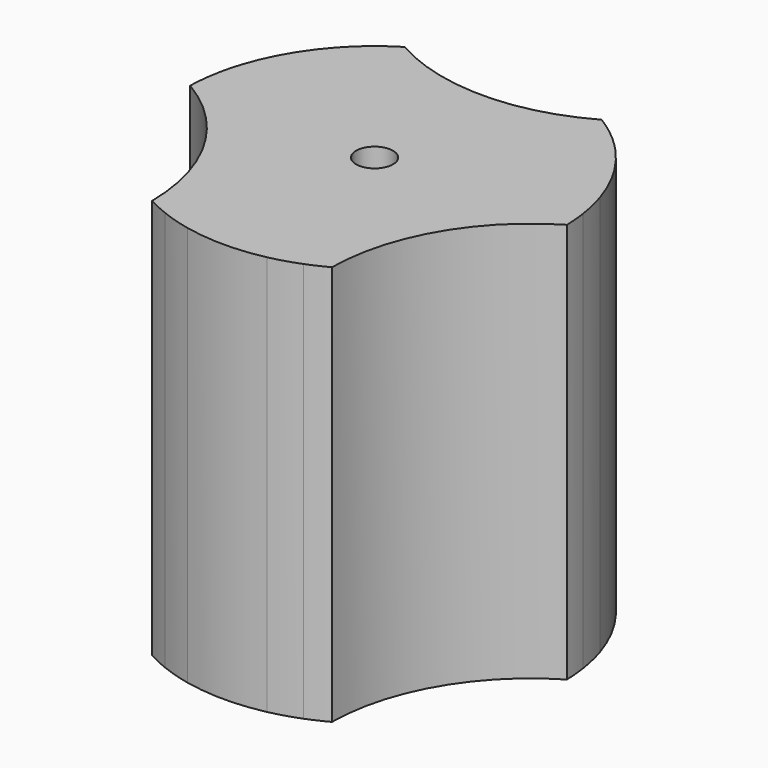
from build123d import *

# Parameters (mm, degrees)
F0_R     = 3.81
F1_DEPTH = 82.55


with BuildPart() as f1:
    # F0 (on Top) → F1 (new body)
    with BuildSketch(Plane.XY):
        with BuildLine():
            ThreePointArc((20.308533, 33.133345), (0, 27.791465), (-20.308533, 33.133345))
            ThreePointArc((-20.308533, 33.133345), (-22.265361, 31.851354), (-24.141506, 30.453944))
            ThreePointArc((-24.141506, 30.453944), (-24.378061, 26.06285), (-28.775153, 26.119832))
            ThreePointArc((-28.775153, 26.119832), (-33.655479, 19.431), (-37.008014, 11.860098))
            ThreePointArc((-37.008014, 11.860098), (-34.76012, 8.080595), (-38.444642, 5.680186))
            ThreePointArc((-38.444642, 5.680186), (-38.716762, 3.356691), (-38.848585, 1.021033))
            ThreePointArc((-38.848585, 1.021033), (-24.068115, -13.895732), (-18.540052, -34.154378))
            ThreePointArc((-18.540052, -34.154378), (-16.451401, -35.208045), (-14.303136, -36.13413))
            ThreePointArc((-14.303136, -36.13413), (-10.382059, -34.143445), (-8.232861, -37.979929))
            ThreePointArc((-8.232861, -37.979929), (0, -38.862), (8.232861, -37.979929))
            ThreePointArc((8.232861, -37.979929), (10.382059, -34.143445), (14.303136, -36.13413))
            ThreePointArc((14.303136, -36.13413), (16.451401, -35.208045), (18.540052, -34.154378))
            ThreePointArc((18.540052, -34.154378), (24.068115, -13.895732), (38.848585, 1.021033))
            ThreePointArc((38.848585, 1.021033), (38.716762, 3.356691), (38.444642, 5.680186))
            ThreePointArc((38.444642, 5.680186), (34.76012, 8.080595), (37.008014, 11.860098))
            ThreePointArc((37.008014, 11.860098), (33.655479, 19.431), (28.775153, 26.119832))
            ThreePointArc((28.775153, 26.119832), (24.378061, 26.06285), (24.141506, 30.453944))
            ThreePointArc((24.141506, 30.453944), (22.265361, 31.851354), (20.308533, 33.133345))
        make_face()
        Circle(F0_R, mode=Mode.SUBTRACT)
        with BuildLine():
            ThreePointArc((-28.775153, 26.119832), (-24.378061, 26.06285), (-24.141506, 30.453944))
            ThreePointArc((-24.141506, 30.453944), (-26.546927, 28.381608), (-28.775153, 26.119832))
        make_face()
        with BuildLine():
            ThreePointArc((28.775153, 26.119832), (26.546927, 28.381608), (24.141506, 30.453944))
            ThreePointArc((24.141506, 30.453944), (24.378061, 26.06285), (28.775153, 26.119832))
        make_face()
        with BuildLine():
            ThreePointArc((-38.444642, 5.680186), (-34.76012, 8.080595), (-37.008014, 11.860098))
            ThreePointArc((-37.008014, 11.860098), (-37.852658, 8.799509), (-38.444642, 5.680186))
        make_face()
        with BuildLine():
            ThreePointArc((38.444642, 5.680186), (37.852658, 8.799509), (37.008014, 11.860098))
            ThreePointArc((37.008014, 11.860098), (34.76012, 8.080595), (38.444642, 5.680186))
        make_face()
        with BuildLine():
            ThreePointArc((-8.232861, -37.979929), (-10.382059, -34.143445), (-14.303136, -36.13413))
            ThreePointArc((-14.303136, -36.13413), (-11.30573, -37.181118), (-8.232861, -37.979929))
        make_face()
        with BuildLine():
            ThreePointArc((8.232861, -37.979929), (11.30573, -37.181118), (14.303136, -36.13413))
            ThreePointArc((14.303136, -36.13413), (10.382059, -34.143445), (8.232861, -37.979929))
        make_face()
    extrude(amount=F1_DEPTH)


solid = f1.part
